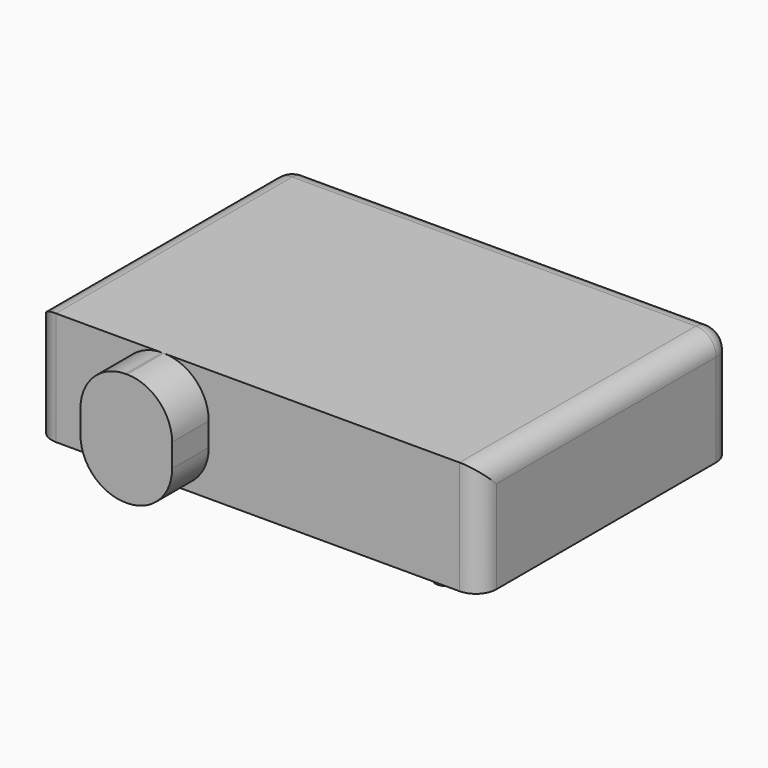
from build123d import *

# Parameters (mm, degrees)
F1_DEPTH = 83.1
F2_R     = 8.2679972053
F3_DEPTH = 9.5
F4_R     = 15
F5_R     = 33
F7_D     = 4.4
F7_DEPTH = 12
F7_TIP   = 1.3218933619


with BuildPart() as f1:
    # F0 (on Top) → F1 (new body)
    with BuildSketch(Plane.XY):
        Polygon((232.5, 121.9), (-93.5, 121.9), (-93.5, -109.7), (-33.6043722928, -109.7), (-33.6043722928, -143.3), (33.6043722928, -143.3), (33.6043722928, -109.7), (232.5, -109.7), align=None)
    extrude(amount=F1_DEPTH)

    # F2 (on face) → F3 (join)
    with BuildSketch(Plane(origin=(0, 0, 0), x_dir=(1, 0, 0), z_dir=(0, 0, -1))):
        with Locations((-65.4409214878, 88.7281829967)):
            Circle(F2_R)
        with Locations((-65.4409214878, -97.7562729967)):
            Circle(F2_R)
        with Locations((191.1744738977, 88.7281829967)):
            Circle(F2_R)
        with Locations((191.1744738977, -97.7562729967)):
            Circle(F2_R)
    extrude(amount=F3_DEPTH)

    # F4
    f4_edges = [f1.edges().sort_by_distance(p)[0] for p in [
        (-93.5, -109.7, 41.55),
        (232.5, -109.7, 41.55),
        (-93.5, 121.9, 41.55),
        (232.5, 121.9, 41.55),
        (69.5, 121.9, 83.1),
        (-93.5, 6.1, 83.1),
        (232.5, 6.1, 83.1),
    ]]
    fillet(f4_edges, radius=F4_R)

    # F5
    f5_edges = [f1.edges().sort_by_distance(p)[0] for p in [
        (-33.604372, -126.5, 83.1),
        (33.604372, -126.5, 83.1),
        (-33.604372, -126.5, 0),
        (33.604372, -126.5, 0),
    ]]
    fillet(f5_edges, radius=F5_R)

    # F7
    with Locations(Plane(origin=(0, 0, 0), x_dir=(1, 0, 0), z_dir=(0, 0, -1))):
        with Locations((-80.5, 51.9), (55, -25), (101, -107), (219, -23)):
            Hole(F7_D / 2, depth=F7_DEPTH)
            with Locations((0, 0, -(F7_DEPTH + F7_TIP / 2))):  # 118° drill point
                Cone(0, F7_D / 2, F7_TIP, mode=Mode.SUBTRACT)


solid = f1.part
